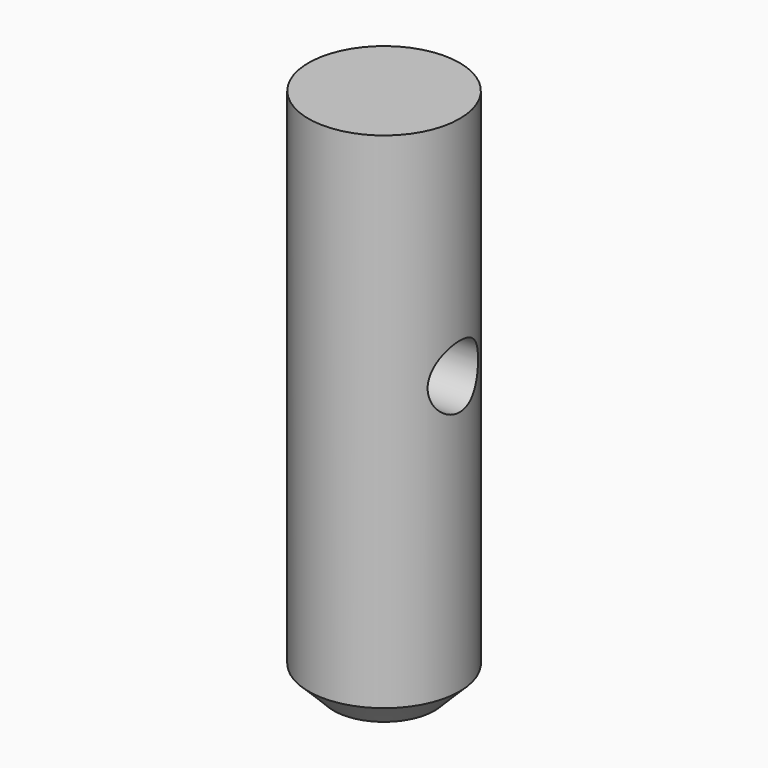
from build123d import *

# Parameters (mm, degrees)
F0_R     = 9.525
F1_DEPTH = 66.675
F2_SIZE  = 3.175
F3_W     = 33.163304
F3_H     = 21.43125
F3_W_2   = 1.5875
F3_R     = 3.96875
F4_DEPTH = 40.839933


with BuildPart() as f1:
    # F0 (on Top) → F1 (new body)
    with BuildSketch(Plane.XY):
        Circle(F0_R)
    extrude(amount=F1_DEPTH)

    # F2
    f2_edges = [f1.edges().sort_by_distance(p)[0] for p in [
        (-9.525, 0, 0),
    ]]
    chamfer(f2_edges, length=F2_SIZE)

    # F3 (on Right) → F4 (cut, symmetric)
    with BuildSketch(Plane.YZ):
        with Locations((26.112016, 21.034375)):
            Rectangle(F3_W, F3_H)
        with Locations((8.736614, 21.034375)):
            Rectangle(F3_W_2, F3_H)
        with Locations((0, 38.1)):
            Circle(F3_R)
    extrude(amount=F4_DEPTH, both=True, mode=Mode.SUBTRACT)


solid = f1.part
